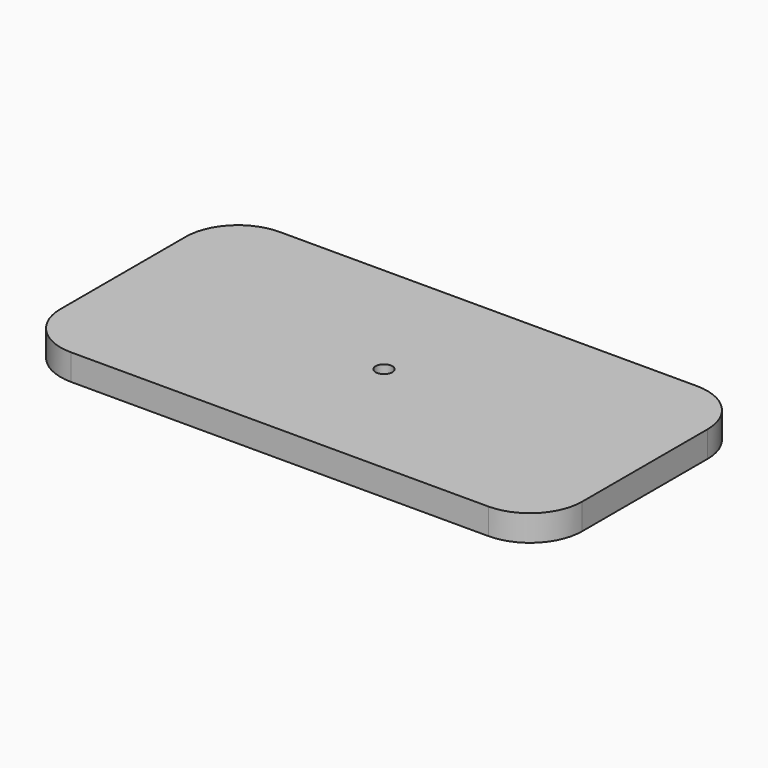
from build123d import *

# Parameters (mm, degrees)
F0_W     = 500
F0_H     = 250
F1_DEPTH = 25
F2_R     = 50
F3_R     = 8
F4_DEPTH = 25.001


with BuildPart() as f1:
    # F0 (on Top) → F1 (new body)
    with BuildSketch(Plane.XY):
        Rectangle(F0_W, F0_H)
    extrude(amount=F1_DEPTH)

    # F2
    f2_edges = [f1.edges().sort_by_distance(p)[0] for p in [
        (-250, -125, 12.5),
        (250, -125, 12.5),
        (250, 125, 12.5),
        (-250, 125, 12.5),
    ]]
    fillet(f2_edges, radius=F2_R)

    # F3 (on face) → F4 (cut, through all)
    with BuildSketch(Plane.XY.offset(25)):
        Circle(F3_R)
    extrude(amount=-F4_DEPTH, mode=Mode.SUBTRACT)


solid = f1.part
